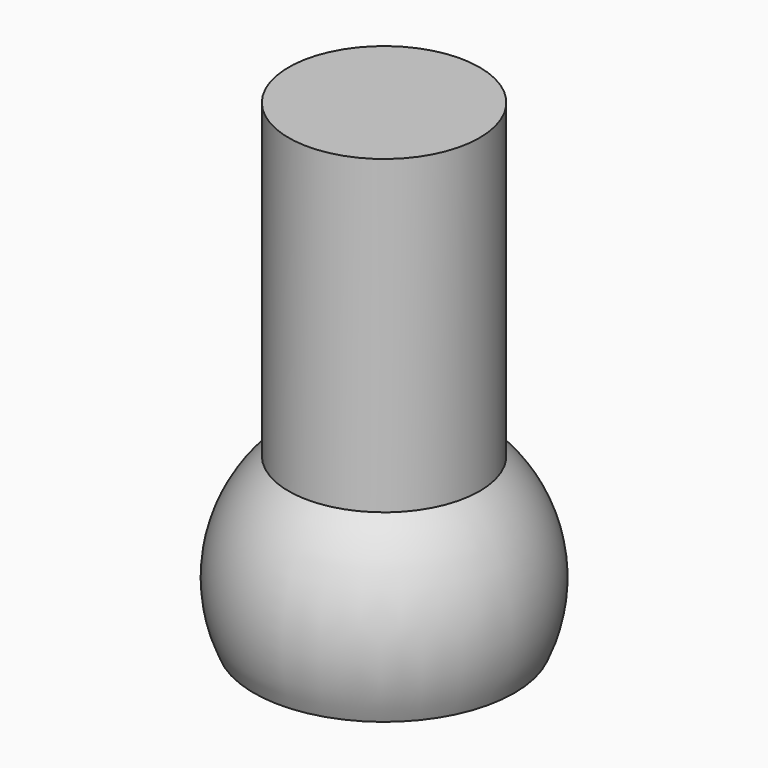
from build123d import *

# Parameters (mm, degrees)
F2_R = 0.5


with BuildPart() as f1:
    # F0 (on Front) → F1 (revolve)
    with BuildSketch(Plane.XZ):
        with BuildLine():
            ThreePointArc((0, 8), (5.831279, 5.476878), (7.9843, -0.500953))
            Line((7.9843, -0.500953), (7.9843, -4.99164))
            Line((7.9843, -4.99164), (10.91254, -4.99164))
            ThreePointArc((10.91254, -4.99164), (11.74621, 2.454903), (8, 8.944272))
            Line((8, 8.944272), (8, 35))
            Line((8, 35), (0, 35))
            Line((0, 35), (0, 8))
        make_face()
    revolve(axis=Axis((0, 0, 5.119479), (0, 0, 1)))

    # F2
    f2_edges = [f1.edges().sort_by_distance(p)[0] for p in [
        (-7.9843, 0, -4.99164),
    ]]
    fillet(f2_edges, radius=F2_R)


solid = f1.part
